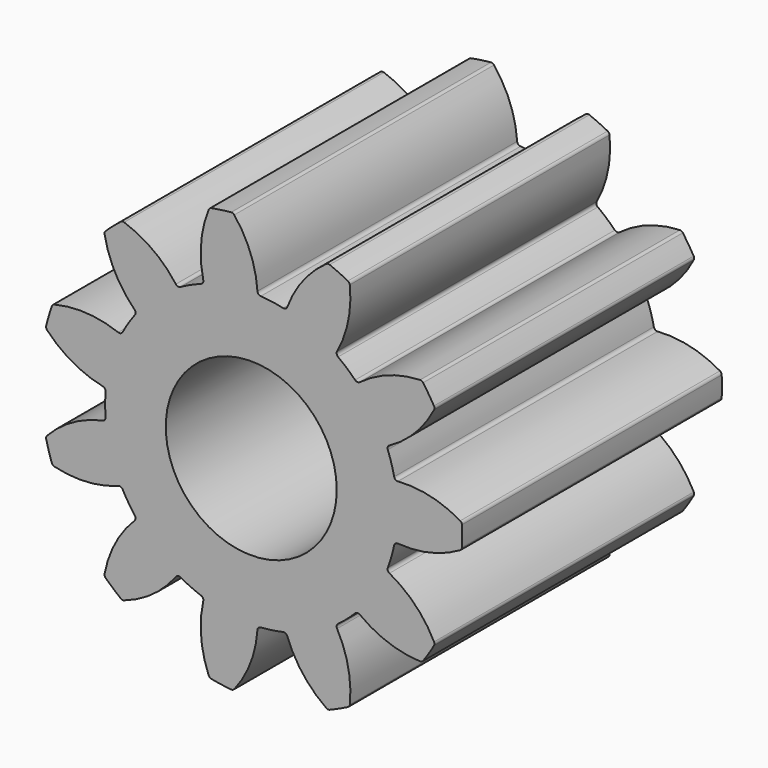
from build123d import *

# Parameters (mm, degrees)
F0_R     = 1.58
F1_DEPTH = 3


with BuildPart() as f1:
    # F0 (on Front) → F1 (new body, symmetric)
    with BuildSketch(Plane.XZ):
        with BuildLine():
            ThreePointArc((0.1764835345, 2.6942259671), (0.1341691164, 2.7133752243), (0.1149463195, 2.7556562852))
            ThreePointArc((0.1149463195, 2.7556562852), (-0.0148204986, 3.3394100657), (-0.3129533658, 3.8577966946))
            ThreePointArc((-0.3129533658, 3.8577966946), (-0.3387771387, 3.8773936836), (-0.3708166587, 3.8823311303))
            ThreePointArc((-0.3708166587, 3.8823311303), (-0.5550278693, 3.8603036233), (-0.7379830973, 3.8295405662))
            ThreePointArc((-0.7379830973, 3.8295405662), (-0.7673337522, 3.8157765449), (-0.786590371, 3.789697974))
            ThreePointArc((-0.786590371, 3.789697974), (-0.9266003718, 3.2083159111), (-0.8866482769, 2.6116487228))
            ThreePointArc((-0.8866482769, 2.6116487228), (-0.8931804641, 2.5656646543), (-0.9283858818, 2.5353697274))
            ThreePointArc((-0.9283858818, 2.5353697274), (-1.1216205351, 2.4560063875), (-1.3081411324, 2.3619413155))
            ThreePointArc((-1.3081411324, 2.3619413155), (-1.7681239817, 2.0405238508), (-2.1517322648, 1.6309654382))
            ThreePointArc((-2.1517322648, 1.6309654382), (-2.2713845386, 1.4597302071), (-2.3774402326, 1.2797569848))
            ThreePointArc((-2.3774402326, 1.2797569848), (-2.5906310288, 0.7606779035), (-2.6919188572, 0.2087411462))
            ThreePointArc((-2.6919188572, 0.2087411462), (-2.7, 0), (-2.6919188572, -0.2087411462))
            ThreePointArc((-2.6919188572, -0.2087411462), (-2.5906310288, -0.7606779035), (-2.3774402326, -1.2797569848))
            ThreePointArc((-2.3774402326, -1.2797569848), (-2.2713845386, -1.4597302071), (-2.1517322648, -1.6309654382))
            ThreePointArc((-2.1517322648, -1.6309654382), (-1.7681239817, -2.0405238508), (-1.3081411324, -2.3619413155))
            ThreePointArc((-1.3081411324, -2.3619413155), (-1.1216205351, -2.4560063875), (-0.9283858818, -2.5353697274))
            ThreePointArc((-0.9283858818, -2.5353697274), (-0.3842500633, -2.6725178931), (0.1764835345, -2.6942259671))
            ThreePointArc((0.1764835345, -2.6942259671), (0.3842500633, -2.6725178931), (0.5897164591, -2.6348120422))
            ThreePointArc((0.5897164591, -2.6348120422), (1.1216205351, -2.4560063875), (1.6050759262, -2.1711129107))
            ThreePointArc((1.6050759262, -2.1711129107), (1.7681239817, -2.0405238508), (1.9205879909, -1.8977201503))
            ThreePointArc((1.9205879909, -1.8977201503), (2.2713845386, -1.4597302071), (2.5240680522, -0.9586868455))
            ThreePointArc((2.5240680522, -0.9586868455), (2.5906310288, -0.7606779035), (2.6416864059, -0.5581155194))
            ThreePointArc((2.6416864059, -0.5581155194), (2.7, 0), (2.6416864059, 0.5581155194))
            ThreePointArc((2.6416864059, 0.5581155194), (2.5906310288, 0.7606779035), (2.5240680522, 0.9586868455))
            ThreePointArc((2.5240680522, 0.9586868455), (2.2713845386, 1.4597302071), (1.9205879909, 1.8977201503))
            ThreePointArc((1.9205879909, 1.8977201503), (1.7681239817, 2.0405238508), (1.6050759262, 2.1711129107))
            ThreePointArc((1.6050759262, 2.1711129107), (1.1216205351, 2.4560063875), (0.5897164591, 2.6348120422))
            ThreePointArc((0.5897164591, 2.6348120422), (0.3842500633, 2.6725178931), (0.1764835345, 2.6942259671))
        make_face()
        Circle(F0_R, mode=Mode.SUBTRACT)
        with BuildLine():
            ThreePointArc((0.6660679051, 2.6764169638), (0.6357118151, 2.6412642707), (0.5897164591, 2.6348120422))
            ThreePointArc((0.5897164591, 2.6348120422), (1.1216205351, 2.4560063875), (1.6050759262, 2.1711129107))
            ThreePointArc((1.6050759262, 2.1711129107), (1.5798316425, 2.2100991926), (1.586519264, 2.256060913))
            ThreePointArc((1.586519264, 2.256060913), (1.7929535909, 2.8173030819), (1.822409234, 3.4145804618))
            ThreePointArc((1.822409234, 3.4145804618), (1.811279826, 3.4450278837), (1.7869958517, 3.4665034005))
            ThreePointArc((1.7869958517, 3.4665034005), (1.6201185507, 3.5475647819), (1.4495750544, 3.6205983154))
            ThreePointArc((1.4495750544, 3.6205983154), (1.4174423205, 3.6248874459), (1.3871434821, 3.6133596702))
            ThreePointArc((1.3871434821, 3.6133596702), (0.9550407005, 3.1999650771), (0.6660679051, 2.6764169638))
        make_face()
        with BuildLine():
            ThreePointArc((2.0073122334, 1.8914417294), (1.9627700848, 1.8782811435), (1.9205879909, 1.8977201503))
            ThreePointArc((1.9205879909, 1.8977201503), (2.2713845386, 1.4597302071), (2.5240680522, 0.9586868455))
            ThreePointArc((2.5240680522, 0.9586868455), (2.5239087847, 1.005132283), (2.554383552, 1.0401821415))
            ThreePointArc((2.554383552, 1.0401821415), (3.0314775838, 1.4007222756), (3.3791697785, 1.8872590586))
            ThreePointArc((3.3791697785, 1.8872590586), (3.3862682438, 1.9188900721), (3.3774498056, 1.9500853342))
            ThreePointArc((3.3774498056, 1.9500853342), (3.280888778, 2.1084991881), (3.1769033686, 2.2621416814))
            ThreePointArc((3.1769033686, 2.2621416814), (3.1521904717, 2.2831221951), (3.1204690807, 2.2898052019))
            ThreePointArc((3.1204690807, 2.2898052019), (2.5334630984, 2.175647941), (2.0073122334, 1.8914417294))
        make_face()
        with BuildLine():
            ThreePointArc((2.7112491106, 0.5059471103), (2.6666627208, 0.5189570245), (2.6416864059, 0.5581155194))
            ThreePointArc((2.6416864059, 0.5581155194), (2.7, 0), (2.6416864059, -0.5581155194))
            ThreePointArc((2.6416864059, -0.5581155194), (2.6666627208, -0.5189570245), (2.7112491106, -0.5059471103))
            ThreePointArc((2.7112491106, -0.5059471103), (3.3075288632, -0.4605779561), (3.8630677944, -0.2392537609))
            ThreePointArc((3.8630677944, -0.2392537609), (3.8861404204, -0.2164817791), (3.8955873101, -0.1854710471))
            ThreePointArc((3.8955873101, -0.1854710471), (3.9, 0), (3.8955873101, 0.1854710471))
            ThreePointArc((3.8955873101, 0.1854710471), (3.8861404204, 0.2164817791), (3.8630677944, 0.2392537609))
            ThreePointArc((3.8630677944, 0.2392537609), (3.3075288632, 0.4605779561), (2.7112491106, 0.5059471103))
        make_face()
        with BuildLine():
            ThreePointArc((-2.1517322648, 1.6309654382), (-1.7681239817, 2.0405238508), (-1.3081411324, 2.3619413155))
            ThreePointArc((-1.3081411324, 2.3619413155), (-1.3540911561, 2.3551737941), (-1.3931212693, 2.3803502573))
            ThreePointArc((-1.3931212693, 2.3803502573), (-1.8178891846, 2.8012779489), (-2.3489554831, 3.0761897348))
            ThreePointArc((-2.3489554831, 3.0761897348), (-2.3812747555, 3.0787143854), (-2.4108975001, 3.0655461575))
            ThreePointArc((-2.4108975001, 3.0655461575), (-2.5539568624, 2.94742334), (-2.69123683, 2.8226307454))
            ThreePointArc((-2.69123683, 2.8226307454), (-2.7084867804, 2.7951835518), (-2.7105873391, 2.7628339478))
            ThreePointArc((-2.7105873391, 2.7628339478), (-2.5140523732, 2.1980491121), (-2.1578598957, 1.7177004654))
            ThreePointArc((-2.1578598957, 1.7177004654), (-2.1384942569, 1.6754846382), (-2.1517322648, 1.6309654382))
        make_face()
        with BuildLine():
            ThreePointArc((2.554383552, -1.0401821415), (2.5239087847, -1.005132283), (2.5240680522, -0.9586868455))
            ThreePointArc((2.5240680522, -0.9586868455), (2.2713845386, -1.4597302071), (1.9205879909, -1.8977201503))
            ThreePointArc((1.9205879909, -1.8977201503), (1.9627700848, -1.8782811435), (2.0073122334, -1.8914417294))
            ThreePointArc((2.0073122334, -1.8914417294), (2.5334630984, -2.175647941), (3.1204690807, -2.2898052019))
            ThreePointArc((3.1204690807, -2.2898052019), (3.1521904717, -2.2831221951), (3.1769033686, -2.2621416814))
            ThreePointArc((3.1769033686, -2.2621416814), (3.280888778, -2.1084991881), (3.3774498056, -1.9500853342))
            ThreePointArc((3.3774498056, -1.9500853342), (3.3862682438, -1.9188900721), (3.3791697785, -1.8872590586))
            ThreePointArc((3.3791697785, -1.8872590586), (3.0314775838, -1.4007222756), (2.554383552, -1.0401821415))
        make_face()
        with BuildLine():
            ThreePointArc((-2.6919188572, 0.2087411462), (-2.5906310288, 0.7606779035), (-2.3774402326, 1.2797569848))
            ThreePointArc((-2.3774402326, 1.2797569848), (-2.4124370542, 1.2492213252), (-2.4588826984, 1.2492998415))
            ThreePointArc((-2.4588826984, 1.2492998415), (-3.043790899, 1.3737598761), (-3.6391808315, 1.3179142695))
            ThreePointArc((-3.6391808315, 1.3179142695), (-3.6677344627, 1.3025650229), (-3.6855354198, 1.2754719398))
            ThreePointArc((-3.6855354198, 1.2754719398), (-3.7420225971, 1.0987569717), (-3.7900418845, 0.9195556068))
            ThreePointArc((-3.7900418845, 0.9195556068), (-3.789714393, 0.8871395309), (-3.7739919791, 0.8587896644))
            ThreePointArc((-3.7739919791, 0.8587896644), (-3.3033105094, 0.4899172508), (-2.7439662444, 0.2783944468))
            ThreePointArc((-2.7439662444, 0.2783944468), (-2.704851233, 0.2533500879), (-2.6919188572, 0.2087411462))
        make_face()
        with BuildLine():
            ThreePointArc((1.586519264, -2.256060913), (1.5798316425, -2.2100991926), (1.6050759262, -2.1711129107))
            ThreePointArc((1.6050759262, -2.1711129107), (1.1216205351, -2.4560063875), (0.5897164591, -2.6348120422))
            ThreePointArc((0.5897164591, -2.6348120422), (0.6357118151, -2.6412642707), (0.6660679051, -2.6764169638))
            ThreePointArc((0.6660679051, -2.6764169638), (0.9550407005, -3.1999650771), (1.3871434821, -3.6133596702))
            ThreePointArc((1.3871434821, -3.6133596702), (1.4174423205, -3.6248874459), (1.4495750544, -3.6205983154))
            ThreePointArc((1.4495750544, -3.6205983154), (1.6201185507, -3.5475647819), (1.7869958517, -3.4665034005))
            ThreePointArc((1.7869958517, -3.4665034005), (1.811279826, -3.4450278837), (1.822409234, -3.4145804618))
            ThreePointArc((1.822409234, -3.4145804618), (1.7929535909, -2.8173030819), (1.586519264, -2.256060913))
        make_face()
        with BuildLine():
            ThreePointArc((-2.3774402326, -1.2797569848), (-2.5906310288, -0.7606779035), (-2.6919188572, -0.2087411462))
            ThreePointArc((-2.6919188572, -0.2087411462), (-2.704851233, -0.2533500879), (-2.7439662444, -0.2783944468))
            ThreePointArc((-2.7439662444, -0.2783944468), (-3.3033105094, -0.4899172508), (-3.7739919791, -0.8587896644))
            ThreePointArc((-3.7739919791, -0.8587896644), (-3.789714393, -0.8871395309), (-3.7900418845, -0.9195556068))
            ThreePointArc((-3.7900418845, -0.9195556068), (-3.7420225971, -1.0987569717), (-3.6855354198, -1.2754719398))
            ThreePointArc((-3.6855354198, -1.2754719398), (-3.6677344627, -1.3025650229), (-3.6391808315, -1.3179142695))
            ThreePointArc((-3.6391808315, -1.3179142695), (-3.043790899, -1.3737598761), (-2.4588826984, -1.2492998415))
            ThreePointArc((-2.4588826984, -1.2492998415), (-2.4124370542, -1.2492213252), (-2.3774402326, -1.2797569848))
        make_face()
        with BuildLine():
            ThreePointArc((0.1149463195, -2.7556562852), (0.1341691164, -2.7133752243), (0.1764835345, -2.6942259671))
            ThreePointArc((0.1764835345, -2.6942259671), (-0.3842500633, -2.6725178931), (-0.9283858818, -2.5353697274))
            ThreePointArc((-0.9283858818, -2.5353697274), (-0.8931804641, -2.5656646543), (-0.8866482769, -2.6116487228))
            ThreePointArc((-0.8866482769, -2.6116487228), (-0.9266003718, -3.2083159111), (-0.786590371, -3.789697974))
            ThreePointArc((-0.786590371, -3.789697974), (-0.7673337522, -3.8157765449), (-0.7379830973, -3.8295405662))
            ThreePointArc((-0.7379830973, -3.8295405662), (-0.5550278693, -3.8603036233), (-0.3708166587, -3.8823311303))
            ThreePointArc((-0.3708166587, -3.8823311303), (-0.3387771387, -3.8773936836), (-0.3129533658, -3.8577966946))
            ThreePointArc((-0.3129533658, -3.8577966946), (-0.0148204986, -3.3394100657), (0.1149463195, -2.7556562852))
        make_face()
        with BuildLine():
            ThreePointArc((-1.3081411324, -2.3619413155), (-1.7681239817, -2.0405238508), (-2.1517322648, -1.6309654382))
            ThreePointArc((-2.1517322648, -1.6309654382), (-2.1384942569, -1.6754846382), (-2.1578598957, -1.7177004654))
            ThreePointArc((-2.1578598957, -1.7177004654), (-2.5140523732, -2.1980491121), (-2.7105873391, -2.7628339478))
            ThreePointArc((-2.7105873391, -2.7628339478), (-2.7084867804, -2.7951835518), (-2.69123683, -2.8226307454))
            ThreePointArc((-2.69123683, -2.8226307454), (-2.5539568624, -2.94742334), (-2.4108975001, -3.0655461575))
            ThreePointArc((-2.4108975001, -3.0655461575), (-2.3812747555, -3.0787143854), (-2.3489554831, -3.0761897348))
            ThreePointArc((-2.3489554831, -3.0761897348), (-1.8178891846, -2.8012779489), (-1.3931212693, -2.3803502573))
            ThreePointArc((-1.3931212693, -2.3803502573), (-1.3540911561, -2.3551737941), (-1.3081411324, -2.3619413155))
        make_face()
    extrude(amount=F1_DEPTH, both=True)


solid = f1.part
